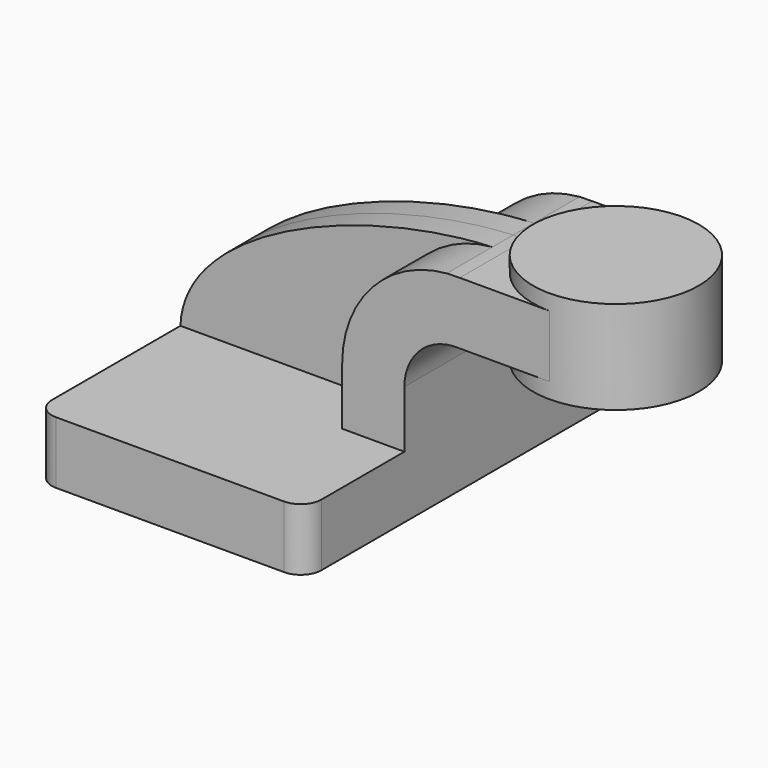
from build123d import *

# Parameters (mm, degrees)
F1_DEPTH = 63.5
F0_W     = 25.4
F0_H     = 19.05
F2_DEPTH = 25.4
F3_DEPTH = 7.9375
F4_DEPTH = 25.4
F6_R     = 6.35


with BuildPart() as f1:
    # F0 (on Front) → F1 (new body, symmetric)
    with BuildSketch(Plane.XZ):
        Polygon((22.225, 9.525), (-41.275, 9.525), (-41.275, -9.525), (41.275, -9.525), (41.275, 9.525), align=None)
    extrude(amount=F1_DEPTH, both=True)

    # F0 (on Front) → F2 (join, symmetric)
    with BuildSketch(Plane.XZ):
        with Locations((73.025, 52.4002)):
            Rectangle(F0_W, F0_H)
        with BuildLine():
            Line((22.225, 27.0165912208), (22.225, 9.525))
            Line((22.225, 9.525), (41.275, 9.525))
            Line((41.275, 9.525), (41.275, 27.0165912208))
            ThreePointArc((41.275, 27.0165912208), (46.1826320332, 38.4940676368), (57.8712160479, 42.8752))
            Line((57.8712160479, 42.8752), (60.325, 42.8752))
            Line((60.325, 42.8752), (60.325, 61.9252))
            Line((60.325, 61.9252), (58.2198869565, 61.9252))
            add(Edge.make_bspline(
                [(54.2612726793, 61.8219195408), (55.5968119666, 61.8785577598), (56.917161192, 61.9131437071), (58.2198869565, 61.9252)],
                knots=[108.8449381095, 108.8449381095, 108.8449381095, 108.8449381095, 112.4500488685, 112.4500488685, 112.4500488685, 112.4500488685], degree=3))
            ThreePointArc((54.2612726793, 61.8219195408), (31.4532645393, 50.66893596), (22.225, 27.0165912208))
        make_face()
    extrude(amount=F2_DEPTH, both=True)

    # F0 (on Front) → F3 (join, symmetric)
    with BuildSketch(Plane.XZ):
        with BuildLine():
            add(Edge.make_bspline(
                [(-41.275, 9.525), (-40.2299736502, 38.3002045249), (13.9388801659, 60.1119073253), (54.2612726793, 61.8219195408)],
                knots=[0, 0, 0, 0, 108.8449381095, 108.8449381095, 108.8449381095, 108.8449381095], degree=3))
            Line((-41.275, 9.525), (22.225, 9.525))
            Line((22.225, 9.525), (22.225, 27.0165912208))
            ThreePointArc((22.225, 27.0165912208), (31.4532645393, 50.66893596), (54.2612726793, 61.8219195408))
        make_face()
    extrude(amount=F3_DEPTH, both=True)

    # F0 (on Front) → F4 (join, symmetric)
    with BuildSketch(Plane.XZ):
        with Locations((73.025, 52.4002)):
            Rectangle(F0_W, F0_H)
    extrude(amount=F4_DEPTH, both=True)

    # F0 (on Front) → F5 (revolve)
    with BuildSketch(Plane.XZ):
        Polygon((85.725, 66.675), (85.725, 61.9252), (85.725, 42.8752), (85.725, 38.1), (111.125, 38.1), (111.125, 66.675), align=None)
    revolve(axis=Axis((85.725, 0, 52.3875), (0, 0, -1)))

    # F6
    f6_edges = [f1.edges().sort_by_distance(p)[0] for p in [
        (-41.275, -63.5, 0),
        (41.275, -63.5, 0),
        (41.275, 63.5, 0),
        (-41.275, 63.5, 0),
    ]]
    fillet(f6_edges, radius=F6_R)


solid = f1.part
